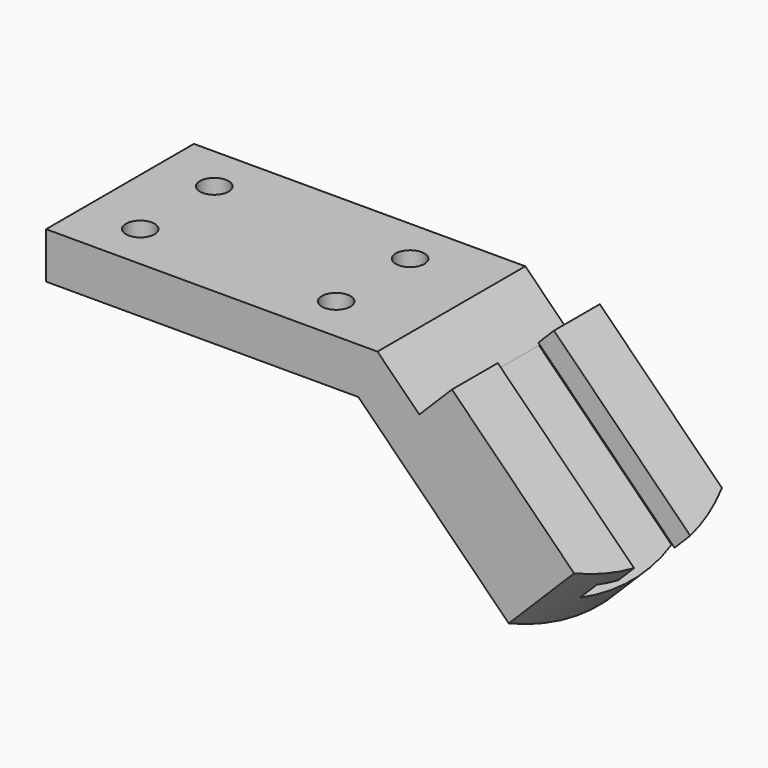
from build123d import *

# Parameters (mm, degrees)
F1_DEPTH       = 25.4
F3_D           = 7.874
F3_CBORE_D     = 12.7
F3_CBORE_DEPTH = 6.096
F5_DEPTH       = 134.531275
F7_DEPTH       = 118.529275


with BuildPart() as f1:
    # F0 (on Front) → F1 (new body, symmetric)
    with BuildSketch(Plane.XZ):
        Polygon((-91.112512, 12.7), (-91.112512, 0), (-5.260512, 0), (40.590758, -45.85127), (49.571014, -36.871014), (58.55127, -27.890758), (20.474984, 10.185528), (11.494728, 1.205272), (0, 12.7), align=None)
    extrude(amount=F1_DEPTH, both=True)

    # F3 (through all)
    with Locations(Plane(origin=(0, 0, 0), x_dir=(1, 0, 0), z_dir=(0, 0, -1))):
        with Locations((-75.364512, 12.7), (-75.364512, -12.7), (-21.516512, -12.7), (-21.516512, 12.7)):
            CounterBoreHole(F3_D / 2, F3_CBORE_D / 2, F3_CBORE_DEPTH)

    # F4 (on face) → F5 (cut, through all)
    with BuildSketch(Plane(origin=(43.221014, 0, -43.221014), x_dir=(0, 1, 0), z_dir=(0.707107, 0, -0.707107))):
        Polygon((9.652, 21.680256), (-9.652, 21.680256), (-9.652, 15.584256), (-15.748, 15.584256), (-15.748, 8.980256), (15.748, 8.980256), (15.748, 15.584256), (9.652, 15.584256), align=None)
    extrude(amount=-F5_DEPTH, mode=Mode.SUBTRACT)

    # F6 (on face) → F7 (intersect, through all)
    with BuildSketch(Plane(origin=(15.330256, 0, 15.330256), x_dir=(0, 1, 0), z_dir=(0.707107, 0, 0.707107))):
        with BuildLine():
            ThreePointArc((-53.848, -7.275744), (0, -61.123744), (53.848, -7.275744))
            Line((53.848, -7.275744), (-53.848, -7.275744))
        make_face()
        Polygon((-53.848, -7.275744), (53.848, -7.275744), (31.523697, 119.548529), (-64.190522, 119.548529), align=None)
    extrude(amount=-F7_DEPTH, mode=Mode.INTERSECT)


solid = f1.part
